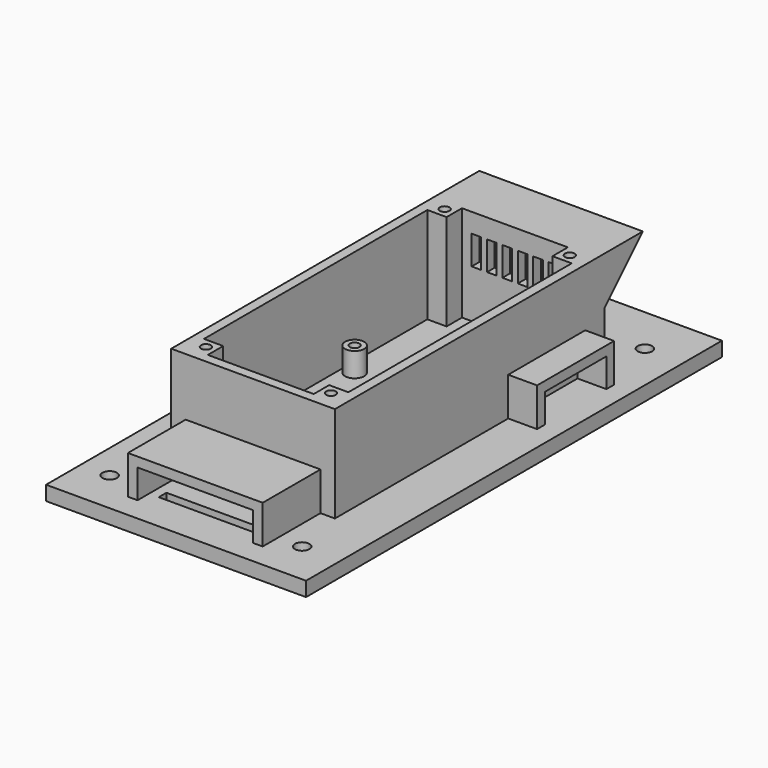
from build123d import *

# Parameters (mm, degrees)
SKETCH_W            = 54
SKETCH_H            = 108
PAD_DEPTH           = 3
SKETCH001_W         = 34
SKETCH001_H         = 70
SKETCH001_W_2       = 30
SKETCH001_H_2       = 66
PAD001_DEPTH        = 20
SKETCH002_R         = 1.5
POCKET_DEPTH        = 5
SKETCH003_W         = 20
SKETCH003_H         = 20
POCKET001_DEPTH     = 5
SKETCH004_W         = 2
SKETCH004_H         = 6
POCKET002_DEPTH     = 5
LINEARPATTERN_COUNT = 6
LINEARPATTERN_PITCH = 3.2
SKETCH005_W         = 16
SKETCH005_H         = 2
POCKET003_DEPTH     = 5
SKETCH006_W         = 10
SKETCH006_H         = 2
POCKET004_DEPTH     = 5
SKETCH007_W         = 20
SKETCH007_H         = 2
POCKET005_DEPTH     = 5
PAD002_DEPTH        = 15
PAD003_DEPTH        = 6
SKETCH010_W         = 30
SKETCH010_H         = 2
PAD004_DEPTH        = 10
PAD005_DEPTH        = 2
PAD006_DEPTH        = 2
SKETCH013_W         = 4
SKETCH013_H         = 4
PAD007_DEPTH        = 20
POCKET006_DEPTH     = 60
SKETCH015_R         = 1
POCKET007_DEPTH     = 10
SKETCH016_R         = 2
SKETCH016_R_2       = 1
PAD008_DEPTH        = 5


with BuildPart() as part:
    # Sketch → Pad (new body)
    with BuildSketch(Plane.XY):
        with Locations((27, 54)):
            Rectangle(SKETCH_W, SKETCH_H)
    extrude(amount=PAD_DEPTH)

    # Sketch001 → Pad001 (new body)
    with BuildSketch(Plane.XY.offset(3)):
        with Locations((27, 55)):
            Rectangle(SKETCH001_W, SKETCH001_H)
        with Locations((27, 55)):
            Rectangle(SKETCH001_W_2, SKETCH001_H_2, mode=Mode.SUBTRACT)
    extrude(amount=PAD001_DEPTH)

    # Sketch002 → Pocket (cut)
    with BuildSketch(Plane.XY.offset(3)):
        with Locations((6, 9)):
            Circle(SKETCH002_R)
        with Locations((46, 9)):
            Circle(SKETCH002_R)
        with Locations((6, 98)):
            Circle(SKETCH002_R)
        with Locations((46, 98)):
            Circle(SKETCH002_R)
    extrude(amount=-POCKET_DEPTH, mode=Mode.SUBTRACT)

    # Sketch003 → Pocket001 (cut)
    with BuildSketch(Plane.XY.offset(3)):
        with Locations((27, 40)):
            Rectangle(SKETCH003_W, SKETCH003_H)
    extrude(amount=-POCKET001_DEPTH, mode=Mode.SUBTRACT)

    # Sketch004 → Pocket002 (cut)
    with BuildSketch(Plane(origin=(0, 90, 0), x_dir=(-1, 0, 0), z_dir=(0, 1, 0))):
        with Locations((-35, 16)):
            Rectangle(SKETCH004_W, SKETCH004_H)
    pocket002 = extrude(amount=-POCKET002_DEPTH, mode=Mode.SUBTRACT)

    # LinearPattern: Pocket002 ×6
    with Locations(*[(-i * LINEARPATTERN_PITCH, 0, 0) for i in range(1, LINEARPATTERN_COUNT)]):
        add(pocket002, mode=Mode.SUBTRACT)

    # Sketch005 → Pocket003 (cut)
    with BuildSketch(Plane.XZ.offset(-20)):
        with Locations((27, 6)):
            Rectangle(SKETCH005_W, SKETCH005_H)
    extrude(amount=-POCKET003_DEPTH, mode=Mode.SUBTRACT)

    # Sketch006 → Pocket004 (cut)
    with BuildSketch(Plane.YZ.offset(44)):
        with Locations((75, 6)):
            Rectangle(SKETCH006_W, SKETCH006_H)
    extrude(amount=-POCKET004_DEPTH, mode=Mode.SUBTRACT)

    # Sketch007 → Pocket005 (cut)
    with BuildSketch(Plane.XY.offset(3)):
        with Locations((27, 9)):
            Rectangle(SKETCH007_W, SKETCH007_H)
    extrude(amount=-POCKET005_DEPTH, mode=Mode.SUBTRACT)

    # Sketch008 → Pad002 (new body)
    with BuildSketch(Plane.XZ.offset(-20)):
        Polygon((15, 9), (15, 3), (13, 3), (13, 11), (41, 11), (41, 3), (39, 3), (39, 9), align=None)
    extrude(amount=PAD002_DEPTH)

    # Sketch009 → Pad003 (new body)
    with BuildSketch(Plane.YZ.offset(44)):
        Polygon((67, 9), (83, 9), (83, 3), (85, 3), (85, 11), (65, 11), (65, 3), (67, 3), align=None)
    extrude(amount=PAD003_DEPTH)

    # Sketch010 → Pad004 (new body)
    with BuildSketch(Plane(origin=(0, 90, 0), x_dir=(-1, 0, 0), z_dir=(0, 1, 0))):
        with Locations((-27, 22)):
            Rectangle(SKETCH010_W, SKETCH010_H)
    extrude(amount=PAD004_DEPTH)

    # Sketch011 → Pad005 (new body)
    with BuildSketch(Plane.YZ.offset(42)):
        Polygon((90, 23), (100, 23), (90, 13), align=None)
    extrude(amount=PAD005_DEPTH)

    # Sketch012 → Pad006 (new body)
    with BuildSketch(Plane(origin=(12, 0, 0), x_dir=(0, -1, 0), z_dir=(-1, 0, 0))):
        Polygon((-100, 23), (-90, 23), (-90, 13), align=None)
    extrude(amount=PAD006_DEPTH)

    # Sketch013 → Pad007 (new body)
    with BuildSketch(Plane.XY.offset(3)):
        with Locations((14, 24)):
            Rectangle(SKETCH013_W, SKETCH013_H)
        with Locations((40, 24)):
            Rectangle(SKETCH013_W, SKETCH013_H)
        with Locations((14, 86)):
            Rectangle(SKETCH013_W, SKETCH013_H)
        with Locations((40, 86)):
            Rectangle(SKETCH013_W, SKETCH013_H)
    extrude(amount=PAD007_DEPTH)

    # Sketch014 → Pocket006 (cut)
    with BuildSketch(Plane(origin=(12, 0, 0), x_dir=(0, -1, 0), z_dir=(-1, 0, 0))):
        Polygon((-100.073799, 23.11141), (-100.073799, 20.732584), (-97.730278, 20.732584), align=None)
    extrude(amount=-POCKET006_DEPTH, mode=Mode.SUBTRACT)

    # Sketch015 → Pocket007 (cut)
    with BuildSketch(Plane.XY.offset(23)):
        with Locations((14, 24)):
            Circle(SKETCH015_R)
        with Locations((40, 24)):
            Circle(SKETCH015_R)
        with Locations((14, 86)):
            Circle(SKETCH015_R)
        with Locations((40, 86)):
            Circle(SKETCH015_R)
    extrude(amount=-POCKET007_DEPTH, mode=Mode.SUBTRACT)

    # Sketch016 → Pad008 (new body)
    with BuildSketch(Plane.XY.offset(3)):
        with Locations((14.5, 62)):
            Circle(SKETCH016_R)
        with Locations((14.5, 62)):
            Circle(SKETCH016_R_2, mode=Mode.SUBTRACT)
        with Locations((39.5, 62)):
            Circle(SKETCH016_R)
        with Locations((39.5, 62)):
            Circle(SKETCH016_R_2, mode=Mode.SUBTRACT)
    extrude(amount=PAD008_DEPTH)


solid = part.part
